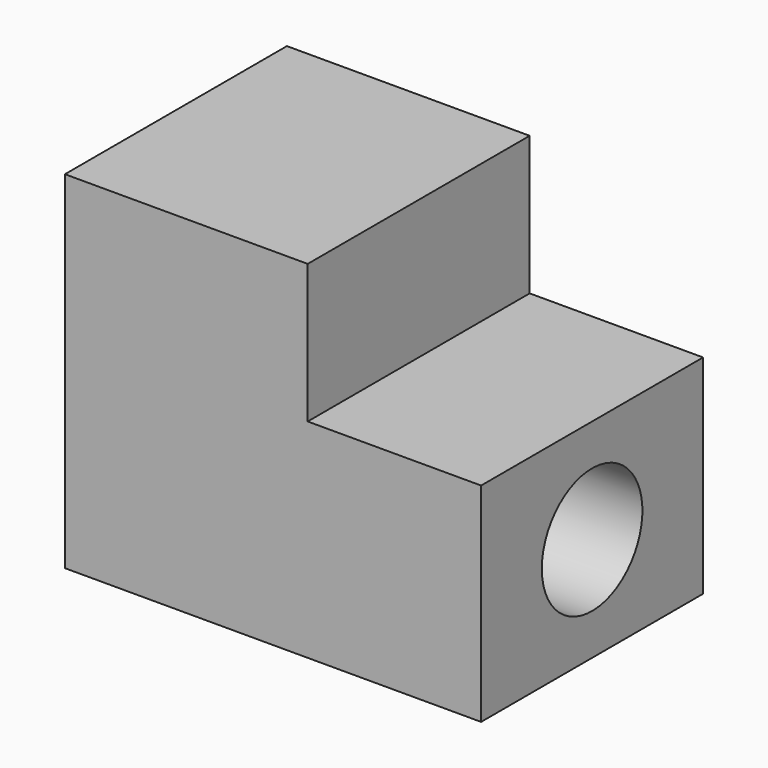
from build123d import *

# Parameters (mm, degrees)
F0_W     = 152.4
F0_H     = 101.6
F1_DEPTH = 127
F2_W     = 63.5
F2_H     = 50.8
F3_DEPTH = 103.87561
F4_R     = 23.014018
F6_DEPTH = 152.401


with BuildPart() as f1:
    # F0 (on Top) → F1 (new body)
    with BuildSketch(Plane.XY):
        with Locations((27.437925, 9.498095)):
            Rectangle(F0_W, F0_H)
    extrude(amount=F1_DEPTH)

    # F2 (on face) → F3 (cut)
    with BuildSketch(Plane.XZ.offset(41.301905)):
        with Locations((71.887925, 101.6)):
            Rectangle(F2_W, F2_H)
    extrude(amount=-F3_DEPTH, mode=Mode.SUBTRACT)

    # F4 (on face) → F6 (cut, through all)
    with BuildSketch(Plane(origin=(-48.762075, 0, 0), x_dir=(0, -1, 0), z_dir=(-1, 0, 0))):
        with Locations((-9.498095, 38.1)):
            Circle(F4_R)
    extrude(amount=-F6_DEPTH, mode=Mode.SUBTRACT)


solid = f1.part
